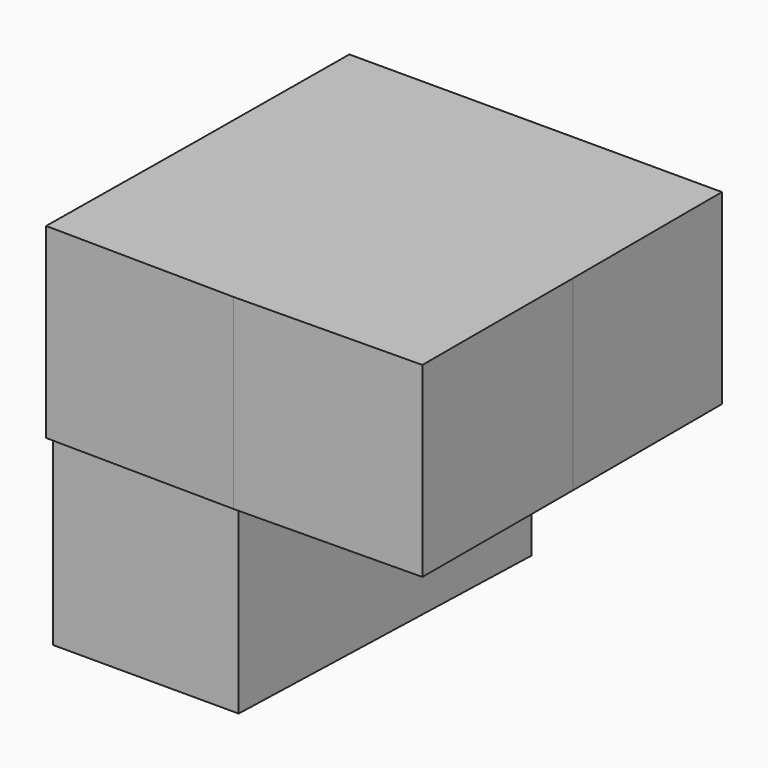
from build123d import *

# Parameters (mm, degrees)
F1_DEPTH = 76.2
F3_DEPTH = 75.692


with BuildPart() as f1:
    # F0 (on Top) → F1 (new body)
    with BuildSketch(Plane.XY):
        Polygon((-76.284863, 0), (0, 0), (-75.671978, 76.048069), align=None)
        Polygon((-75.671978, 76.048069), (0, 0), (0, 76.07428), align=None)
        Polygon((76.539457, 0), (0, 0), (76.426028, -76.805866), align=None)
        Polygon((76.426028, -76.805866), (0, 0), (0, -77.749327), align=None)
        Polygon((-77.187592, -76.805866), (0, 0), (-76.284863, 0), align=None)
        Polygon((0, -77.749327), (0, 0), (-77.187592, -76.805866), align=None)
        Polygon((76.426028, 76.048069), (0, 0), (76.539457, 0), align=None)
        Polygon((0, 76.07428), (0, 0), (76.426028, 76.048069), align=None)
    extrude(amount=F1_DEPTH)

    # F2 (on Right) → F3 (join)
    with BuildSketch(Plane.YZ):
        Polygon((74.495971, 0), (0, 0), (74.495971, -78.658558), align=None)
        Polygon((74.495971, -78.658558), (0, 0), (-75.030014, -74.675329), align=None)
        Polygon((-75.030014, -74.675329), (0, 0), (-75.030014, 0), align=None)
    extrude(amount=-F3_DEPTH)


solid = f1.part
